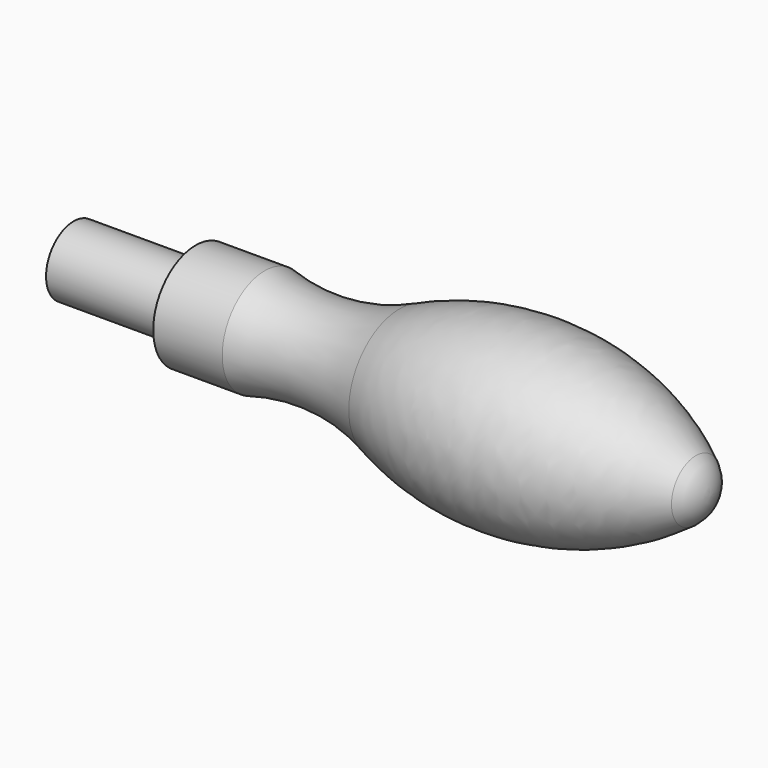
from build123d import *

# Parameters (mm, degrees)
F0_W = 23
F0_H = 6.5


with BuildPart() as f1:
    # F0 (on Top) → F1 (revolve)
    with BuildSketch(Plane.XY):
        with BuildLine():
            Line((0, 10), (0, 6.5))
            Line((0, 6.5), (0, 0))
            Line((0, 0), (97.145537, 0))
            ThreePointArc((97.145537, 0), (96.378368, 3.221045), (94.24159, 5.750445))
            ThreePointArc((94.24159, 5.750445), (67.129777, 16.34737), (38.361702, 11.904051))
            ThreePointArc((38.361702, 11.904051), (25.844875, 8.767246), (13, 10))
            Line((13, 10), (0, 10))
        make_face()
    revolve(axis=Axis((43.836206, 0, 0), (1, 0, 0)))

    # F0 (on Top) → F2 (revolve)
    with BuildSketch(Plane.XY):
        with Locations((-11.5, 3.25)):
            Rectangle(F0_W, F0_H)
    revolve(axis=Axis((-11.5, 0, 0), (1, 0, 0)))


solid = f1.part
